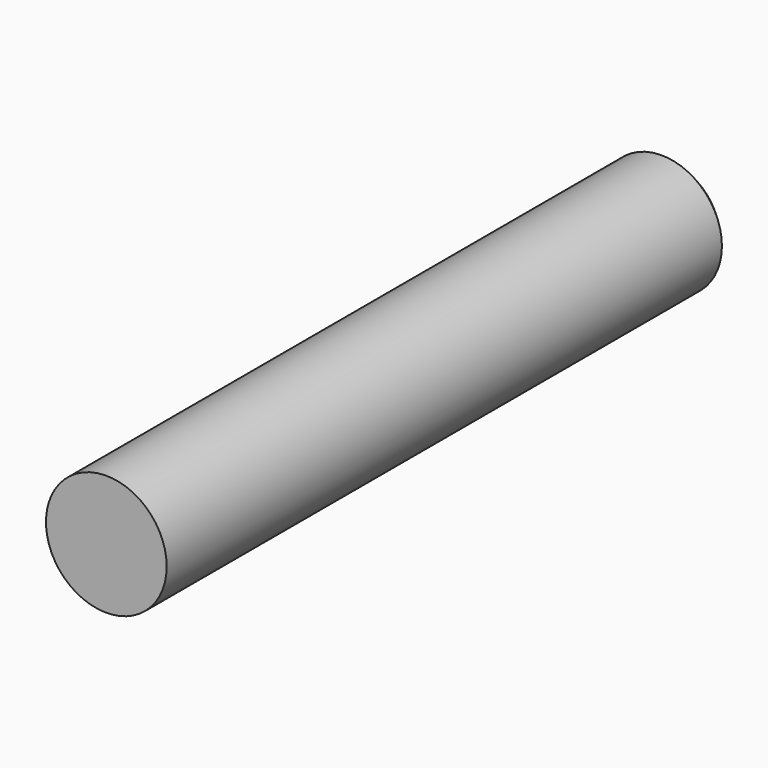
from build123d import *

# Parameters (mm, degrees)
F0_R     = 3
F1_DEPTH = 35
F2_SIZE  = 0.5


with BuildPart() as f1:
    # F0 (on Front) → F1 (new body)
    with BuildSketch(Plane.XZ):
        Circle(F0_R)
    extrude(amount=-F1_DEPTH)

    # F2
    f2_edges = [f1.edges().sort_by_distance(p)[0] for p in [
        (-3, 35, 0),
    ]]
    chamfer(f2_edges, length=F2_SIZE)


solid = f1.part
